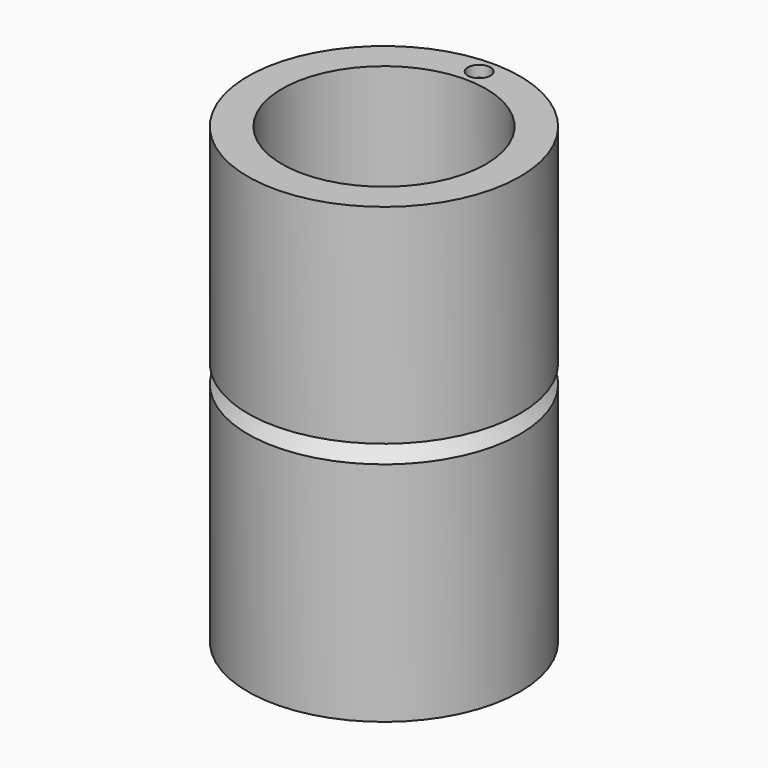
from build123d import *

# Parameters (mm, degrees)
F0_R     = 12
F1_DEPTH = 40
F2_R     = 9
F3_DEPTH = 40.001
F7_R     = 1
F8_DEPTH = 1


with BuildPart() as f1:
    # F0 (on Top) → F1 (new body)
    with BuildSketch(Plane.XY):
        Circle(F0_R)
    extrude(amount=F1_DEPTH)

    # F2 (on face) → F3 (cut, through all)
    with BuildSketch(Plane.XY.offset(40)):
        Circle(F2_R)
    extrude(amount=-F3_DEPTH, mode=Mode.SUBTRACT)

    # F4 (on Front) → F6 (revolve, cut)
    with BuildSketch(Plane.XZ):
        Polygon((-12, 21.60143), (-12, 20), (-10.39857, 21.60143), align=None)
    revolve(axis=Axis((0, 0, 20.635139), (0, 0, 1)), mode=Mode.SUBTRACT)

    # F7 (on face) → F8 (cut)
    with BuildSketch(Plane.XY.offset(40)):
        with Locations((0, 10.5)):
            Circle(F7_R)
    extrude(amount=-F8_DEPTH, mode=Mode.SUBTRACT)


solid = f1.part
